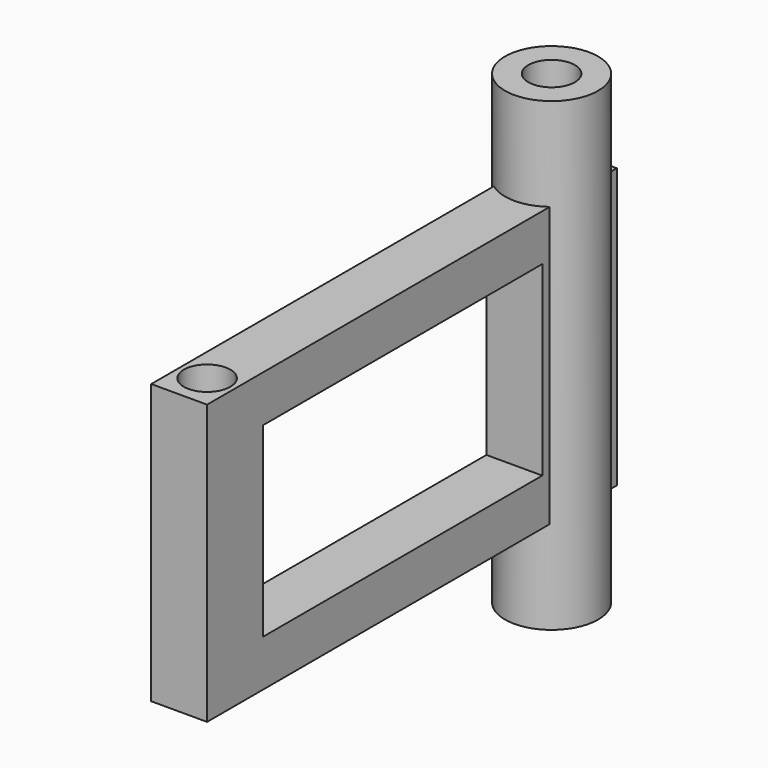
from build123d import *

# Parameters (mm, degrees)
F0_R          = 10
F1_DEPTH      = 100
F2_W          = 12
F2_H          = 60
F3_DEPTH      = 100
F3_DEPTH_BACK = 10
F4_W          = 75
F4_H          = 40
F5_DEPTH      = 12
F6_R          = 5
F7_DEPTH      = 100
F8_R          = 5
F9_DEPTH      = 80.001


with BuildPart() as f1:
    # F0 (on Top) → F1 (new body)
    with BuildSketch(Plane.XY):
        Circle(F0_R)
    extrude(amount=F1_DEPTH)

    # F2 (on Front) → F3 (join, two sides)
    with BuildSketch(Plane.XZ) as f3_sk:
        with Locations((0, 50)):
            Rectangle(F2_W, F2_H)
    extrude(amount=F3_DEPTH)
    extrude(f3_sk.sketch, amount=-F3_DEPTH_BACK)

    # F4 (on face) → F5 (cut, through all)
    with BuildSketch(Plane.YZ.offset(6)):
        with Locations((-47.5, 50)):
            Rectangle(F4_W, F4_H)
    extrude(amount=-F5_DEPTH, mode=Mode.SUBTRACT)

    # F6 (on Top) → F7 (cut, through all)
    with BuildSketch(Plane.XY):
        Circle(F6_R)
    extrude(amount=F7_DEPTH, mode=Mode.SUBTRACT)

    # F8 (on face) → F9 (cut, through all)
    with BuildSketch(Plane(origin=(0, 0, 20), x_dir=(1, 0, 0), z_dir=(0, 0, -1))):
        with Locations((0, 92.5)):
            Circle(F8_R)
    extrude(amount=-F9_DEPTH, mode=Mode.SUBTRACT)


solid = f1.part
